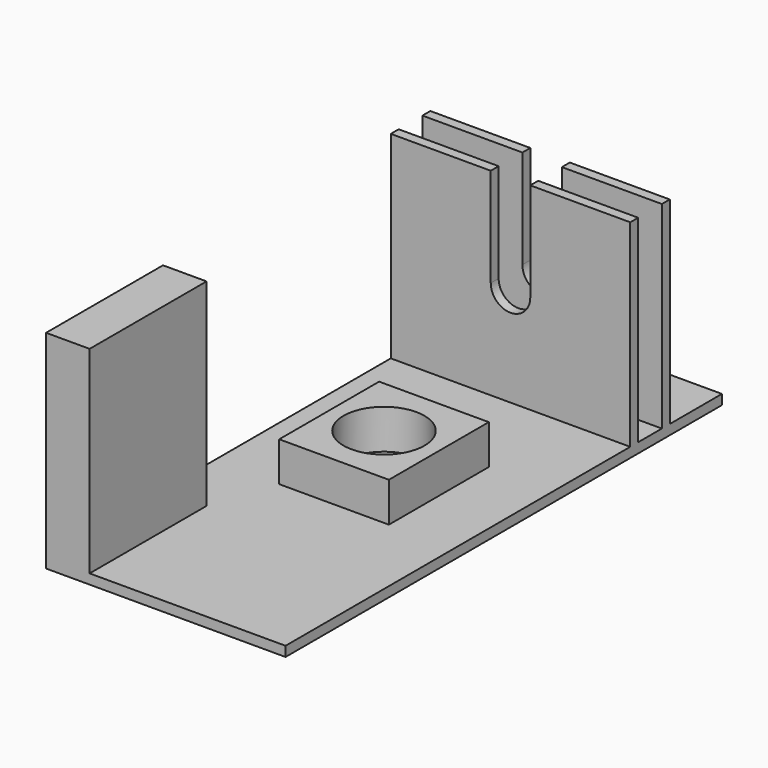
from build123d import *

# Parameters (mm, degrees)
F0_W      = 153.852672
F0_H      = 350.459368
F1_DEPTH  = 6.35
F2_W      = 153.852672
F2_H      = 6.35
F3_DEPTH  = 127
F4_W      = 153.852672
F4_H      = 6.35
F5_DEPTH  = 127
F7_DEPTH  = 96.774
F8_W      = 70.44766
F8_H      = 80.216594
F8_R      = 25.993866
F9_DEPTH  = 25.4
F10_W     = 27.971894
F10_H     = 93.894914
F11_DEPTH = 127


with BuildPart() as f1:
    # F0 (on Top) → F1 (new body)
    with BuildSketch(Plane.XY):
        Rectangle(F0_W, F0_H)
    extrude(amount=F1_DEPTH)

    # F2 (on face) → F3 (join)
    with BuildSketch(Plane.XY.offset(6.35)):
        with Locations((0, 130.175)):
            Rectangle(F2_W, F2_H)
    extrude(amount=F3_DEPTH)

    # F4 (on face) → F5 (join)
    with BuildSketch(Plane.XY.offset(6.35)):
        with Locations((0, 104.775)):
            Rectangle(F4_W, F4_H)
    extrude(amount=F5_DEPTH)

    # F6 (on face) → F7 (cut)
    with BuildSketch(Plane(origin=(0, 133.35, 0), x_dir=(-1, 0, 0), z_dir=(0, 1, 0))):
        with BuildLine():
            Line((12.7, 133.35), (0, 133.35))
            Line((0, 133.35), (-12.7, 133.35))
            Line((-12.7, 133.35), (-12.7, 69.85))
            ThreePointArc((-12.7, 69.85), (0, 57.15), (12.7, 69.85))
            Line((12.7, 69.85), (12.7, 133.35))
        make_face()
    extrude(amount=-F7_DEPTH, mode=Mode.SUBTRACT)

    # F8 (on face) → F9 (join)
    with BuildSketch(Plane.XY.offset(6.35)):
        Rectangle(F8_W, F8_H)
        Circle(F8_R, mode=Mode.SUBTRACT)
    extrude(amount=F9_DEPTH)

    # F10 (on face) → F11 (join)
    with BuildSketch(Plane.XY.offset(6.35)):
        with Locations((-62.940389, -128.282227)):
            Rectangle(F10_W, F10_H)
    extrude(amount=F11_DEPTH)


solid = f1.part
